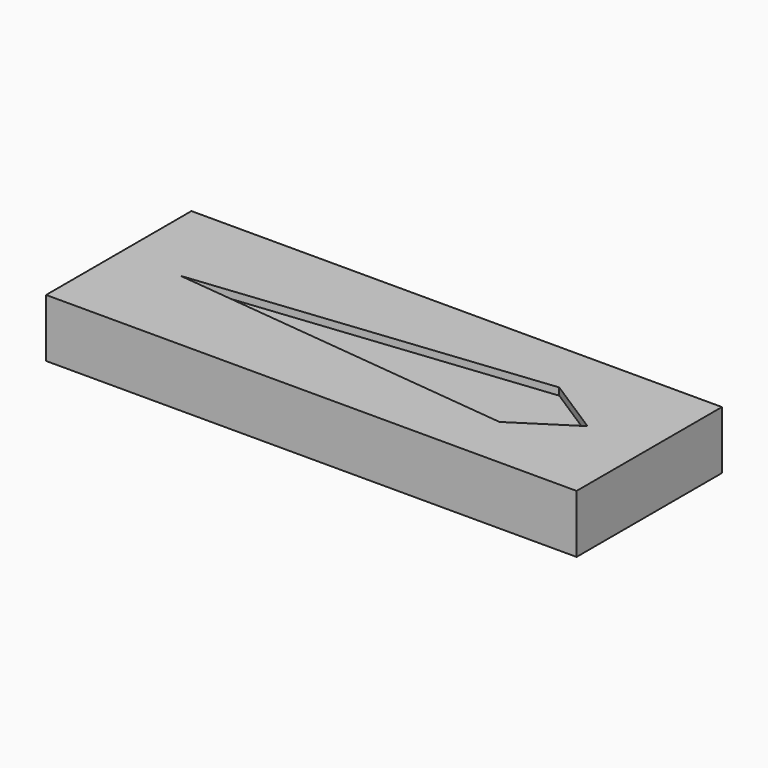
from build123d import *

# Parameters (mm, degrees)
F0_W     = 231.775
F0_H     = 79.375
F1_DEPTH = 25.4
F3_DEPTH = 3.175


with BuildPart() as f1:
    # F0 (on Top) → F1 (new body)
    with BuildSketch(Plane.XY):
        Rectangle(F0_W, F0_H)
    extrude(amount=F1_DEPTH)

    # F2 (on face) → F3 (cut)
    with BuildSketch(Plane.XY.offset(25.4)):
        Polygon((63.5, 16.328571), (-88.9, 0), (63.5, -16.328571), (88.9, 0), align=None)
    extrude(amount=-F3_DEPTH, mode=Mode.SUBTRACT)


solid = f1.part
